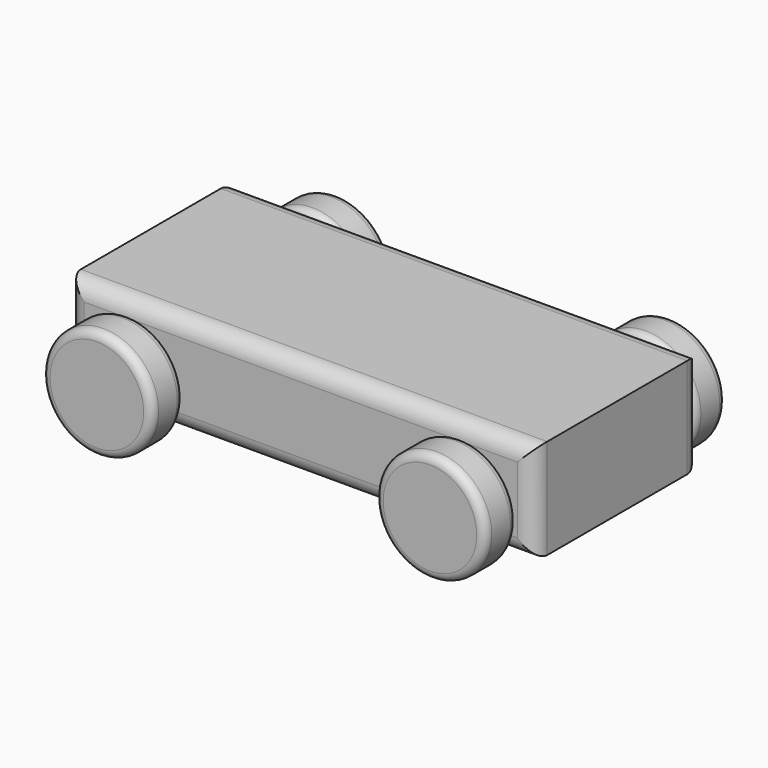
from build123d import *

# Parameters (mm, degrees)
F1_W     = 177.8
F1_H     = 38.1
F2_DEPTH = 39.6875
F4_R     = 21.0058
F5_DEPTH = 15.24
F6_R     = 6.35
F7_R     = 3.175


with BuildPart() as f2:
    # F1 (on Front) → F2 (new body, symmetric)
    with BuildSketch(Plane.XZ):
        Rectangle(F1_W, F1_H)
    extrude(amount=F2_DEPTH, both=True)

    # F6
    f6_edges = [f2.edges().sort_by_distance(p)[0] for p in [
        (0, -39.6875, 19.05),
        (0, -39.6875, -19.05),
        (-88.9, -39.6875, 0),
        (88.9, -39.6875, 0),
        (0, 39.6875, 19.05),
        (88.9, 39.6875, 0),
        (0, 39.6875, -19.05),
        (-88.9, 39.6875, 0),
    ]]
    fillet(f6_edges, radius=F6_R)


with BuildPart() as f5:
    # F4 (on offset) → F5 (new body)
    with BuildSketch(Plane.XZ.offset(42.2275)):
        with Locations((63.5, -5.0292)):
            Circle(F4_R)
    extrude(amount=F5_DEPTH)

    # F7
    f7_edges = [f5.edges().sort_by_distance(p)[0] for p in [
        (42.4942, -57.4675, -5.0292),
        (42.4942, -42.2275, -5.0292),
    ]]
    fillet(f7_edges, radius=F7_R)


with BuildPart() as f8_1:
    # F8: instance of F5
    add(f5.part.mirror(Plane.XZ))


with BuildPart() as f9_1:
    # F9: instance of F5
    add(f5.part.mirror(Plane.YZ))


with BuildPart() as f9_2:
    # F9: instance of F8_1
    add(f8_1.part.mirror(Plane.YZ))


solid = Compound([f2.part, f5.part, f8_1.part, f9_1.part, f9_2.part])
